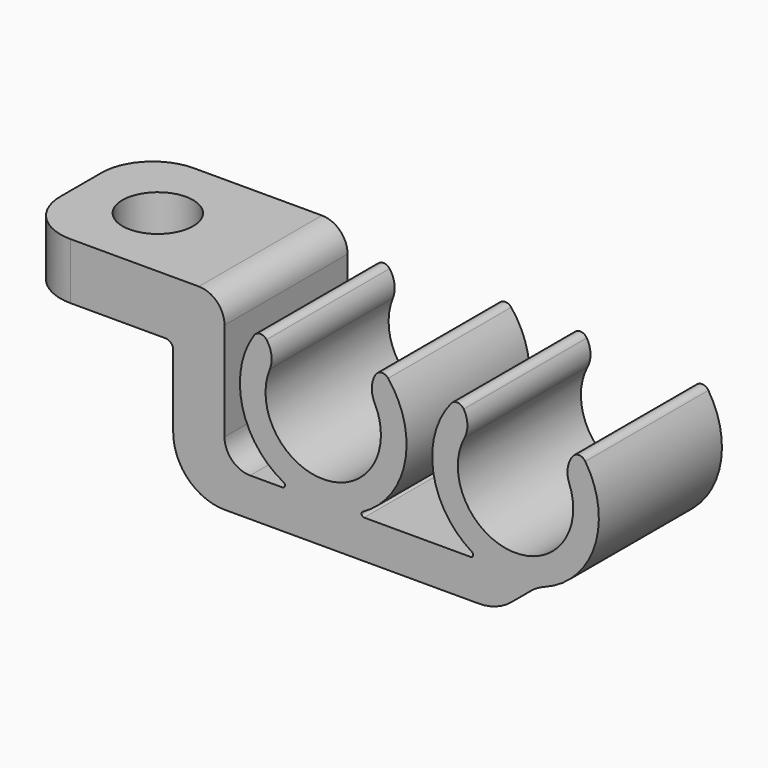
from build123d import *

# Parameters (mm, degrees)
F1_DEPTH = 15.24
F3_DEPTH = 15.24
F5_D     = 7
F6_R     = 5.08
F7_R     = 2.54
F8_R     = 0.762
F9_R     = 0.254


with BuildPart() as f1:
    # F0 (on Front) → F1 (new body)
    with BuildSketch(Plane.XZ):
        with BuildLine():
            ThreePointArc((-5.4838847455, 13.5661152545), (-9.2757152012, 3.8154394137), (-13.9029439924, 13.1985311894))
            Line((-13.9029439924, 13.1985311894), (-15.8486968779, 14.831211718))
            ThreePointArc((-15.8486968779, 14.831211718), (-9.1649219573, 1.2778569308), (-3.6878335213, 15.3621664787))
            Line((-3.6878335213, 15.3621664787), (-5.4838847455, 13.5661152545))
        make_face()
    extrude(amount=F1_DEPTH)



with BuildPart() as f1b:
    # F0 (on Front) → F1, piece 2 (new body)
    with BuildSketch(Plane.XZ):
        with BuildLine():
            ThreePointArc((13.9452403049, 12.9163381462), (9.2059751792, 3.5893330735), (5.531186829, 13.3847191373))
            Line((5.531186829, 13.3847191373), (3.7567731907, 15.2021503575))
            ThreePointArc((3.7567731907, 15.2021503575), (9.0648008077, 1.0532593765), (15.9104059892, 14.525600037))
            Line((15.9104059892, 14.525600037), (13.9452403049, 12.9163381462))
        make_face()
    extrude(amount=F1_DEPTH)


with BuildPart() as f1_1:
    add(f1.part)

    add(f1b.part)  # F3 merges F1b
    # F2 (on Front) → F3 (join)
    with BuildSketch(Plane.XZ):
        Polygon((12.2539751792, 1.7834394137), (-19.304, 1.7834394137), (-19.304, 16.609211718), (-39.624, 16.609211718), (-39.624, 11.021211718), (-24.384, 11.021211718), (-24.384, -2.0265605863), (7.7133939915, -2.0265605863), align=None)
    extrude(amount=F3_DEPTH)

    # F5 (through all)
    with Locations(Plane(origin=(0, 0, 11.021211718), x_dir=(1, 0, 0), z_dir=(0, 0, -1))):
        with Locations((-32.004, 7.62)):
            Hole(F5_D / 2)

    # F6
    f6_edges = [f1_1.edges().sort_by_distance(p)[0] for p in [
        (-39.624, -15.24, 13.815212),
        (-39.624, 0, 13.815212),
        (-24.384, -7.62, -2.026561),
        (11.72475, -7.62, 1.339367),
        (7.713394, -7.62, -2.026561),
    ]]
    fillet(f6_edges, radius=F6_R)

    # F7
    f7_edges = [f1_1.edges().sort_by_distance(p)[0] for p in [
        (-19.304, -7.62, 16.609212),
        (-19.304, -7.62, 1.783439),
        (-13.902944, -7.62, 13.198531),
        (-5.483885, -7.62, 13.566115),
        (5.531187, -7.62, 13.384719),
        (13.94524, -7.62, 12.916338),
    ]]
    fillet(f7_edges, radius=F7_R)

    # F8
    f8_edges = [f1_1.edges().sort_by_distance(p)[0] for p in [
        (-15.848697, -7.62, 14.831212),
        (-3.687834, -7.62, 15.362166),
        (3.756773, -7.62, 15.20215),
        (15.910406, -7.62, 14.5256),
        (-24.384, -7.62, 11.021212),
    ]]
    fillet(f8_edges, radius=F8_R)

    # F9
    f9_edges = [f1_1.edges().sort_by_distance(p)[0] for p in [
        (-6.659121, -7.62, 1.783439),
        (-12.390879, -7.62, 1.783439),
        (6.101047, -7.62, 1.783439),
    ]]
    fillet(f9_edges, radius=F9_R)


solid = f1_1.part
